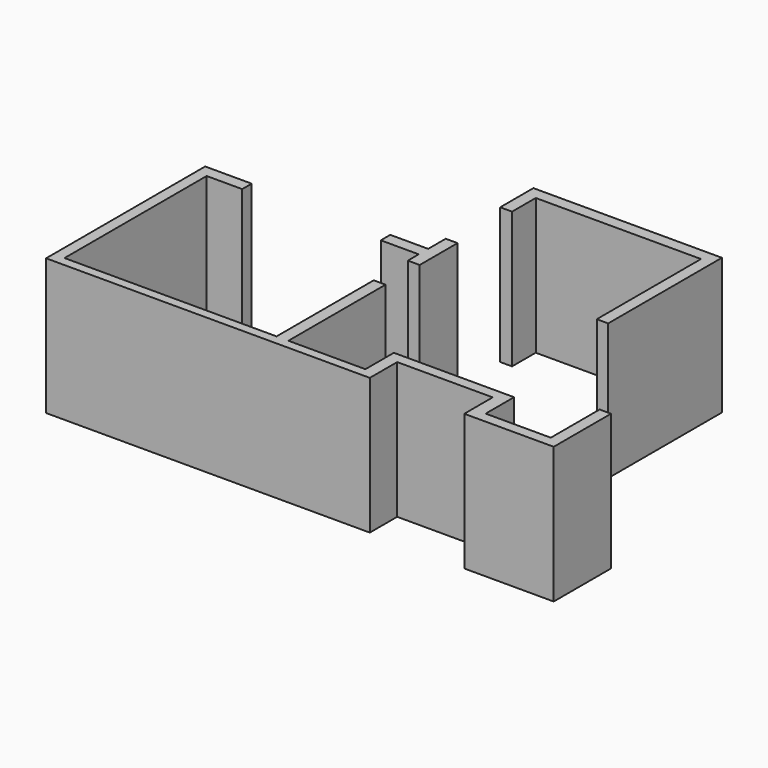
from build123d import *

# Parameters (mm, degrees)
F1_DEPTH = 2300


with BuildPart() as f1:
    # F0 (on Top) → F1 (new body)
    with BuildSketch(Plane.XY):
        Polygon((-2222.057199, 2393.888497), (-2222.057199, 2593.888497), (-3007.352352, 2593.888497), (-3007.352352, -763.343632), (2457.947493, -763.343632), (2457.947493, -185.985103), (4070.698738, -185.985103), (4070.698738, -785.295486), (5580.591679, -785.295486), (5580.591679, 423.888497), (5387.942801, 423.888497), (5387.942801, -606.111503), (4287.942801, -606.111503), (4287.942801, -6.111503), (2257.942801, -6.111503), (2257.942801, -606.111503), (957.942801, -606.111503), (957.942801, 1443.888497), (757.942801, 1443.888497), (757.942801, -606.111503), (-2822.057199, -606.111503), (-2822.057199, 2393.888497), align=None)
        Polygon((957.942801, 2963.888497), (757.942801, 2963.888497), (757.942801, 2593.888497), (117.942801, 2593.888497), (117.942801, 2393.888497), (757.942801, 2393.888497), (757.942801, 2163.888497), (957.942801, 2163.888497), align=None)
        Polygon((3747.942801, 4613.888497), (3747.942801, 2413.888497), (3940.707922, 2413.888497), (3940.707922, 4814.306736), (757.942801, 4814.306736), (757.942801, 4113.888497), (957.942801, 4113.888497), (957.942801, 4613.888497), align=None)
    extrude(amount=F1_DEPTH)


solid = f1.part
